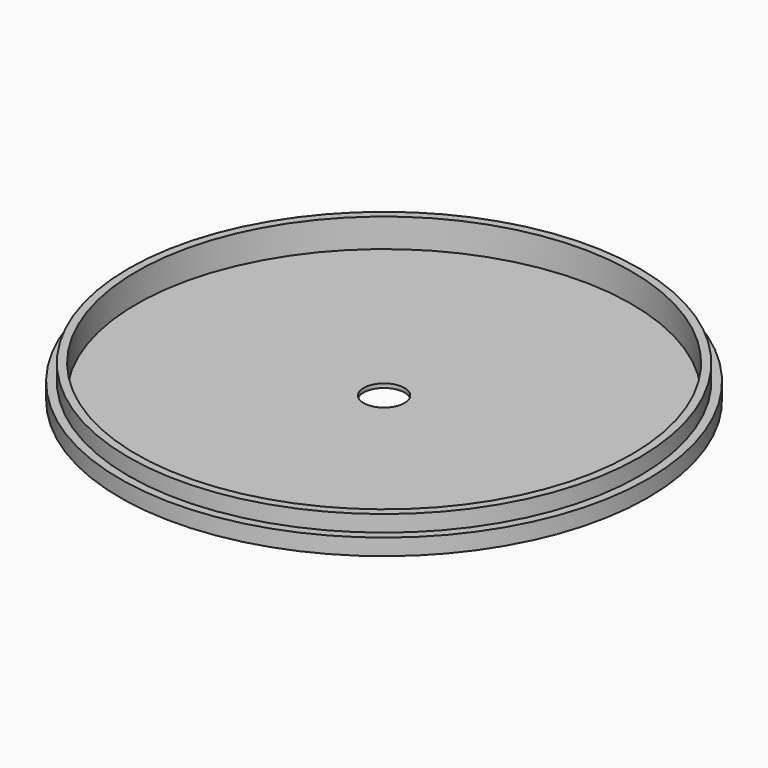
from build123d import *

# Parameters (mm, degrees)
F0_R     = 60.5
F0_R_2   = 5
F1_DEPTH = 1
F0_R_3   = 62.45
F2_DEPTH = 8
F0_R_4   = 64.5
F3_DEPTH = 4


with BuildPart() as f1:
    # F0 (on Top) → F1 (new body)
    with BuildSketch(Plane.XY):
        Circle(F0_R)
        Circle(F0_R_2, mode=Mode.SUBTRACT)
    extrude(amount=F1_DEPTH)

    # F0 (on Top) → F2 (join)
    with BuildSketch(Plane.XY):
        Circle(F0_R_3)
        Circle(F0_R, mode=Mode.SUBTRACT)
    extrude(amount=F2_DEPTH)

    # F0 (on Top) → F3 (join)
    with BuildSketch(Plane.XY):
        Circle(F0_R_4)
        Circle(F0_R_3, mode=Mode.SUBTRACT)
    extrude(amount=F3_DEPTH)


solid = f1.part
